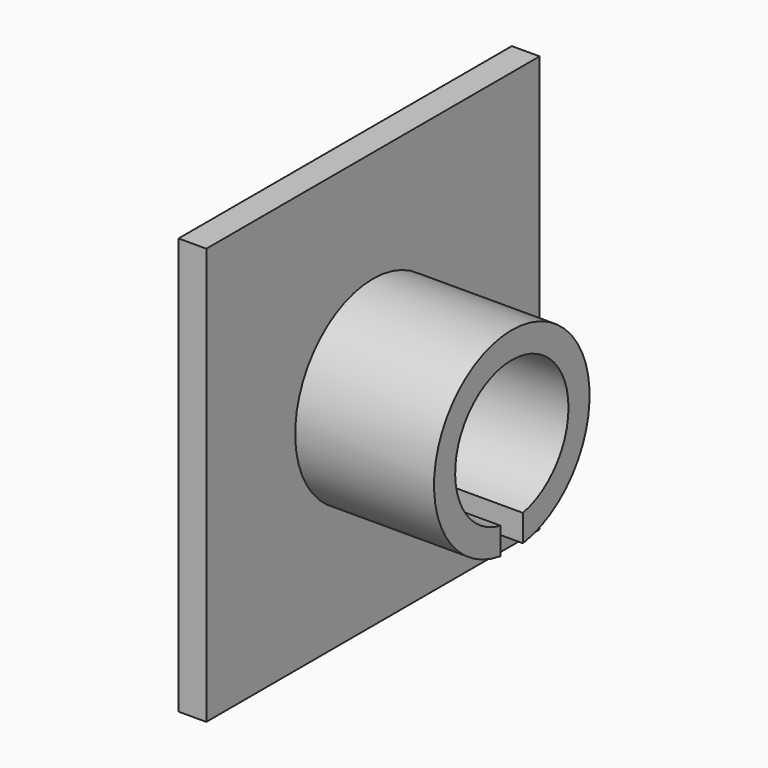
from build123d import *

# Parameters (mm, degrees)
F0_W     = 15
F0_H     = 15
F1_DEPTH = 1
F2_R     = 3.5
F3_DEPTH = 5
F4_R     = 2.55
F5_DEPTH = 25
F6_W     = 5.5
F6_H     = 1
F7_DEPTH = 7


with BuildPart() as f1:
    # F0 (on Right) → F1 (new body)
    with BuildSketch(Plane.YZ):
        Rectangle(F0_W, F0_H)
    extrude(amount=F1_DEPTH)

    # F2 (on face) → F3 (join)
    with BuildSketch(Plane.YZ.offset(1)):
        Circle(F2_R)
    extrude(amount=F3_DEPTH)

    # F4 (on face) → F5 (cut)
    with BuildSketch(Plane.YZ.offset(6)):
        Circle(F4_R)
    extrude(amount=-F5_DEPTH, mode=Mode.SUBTRACT)

    # F6 (on face) → F7 (cut)
    with BuildSketch(Plane(origin=(0, 0, -7.5), x_dir=(1, 0, 0), z_dir=(0, 0, -1))):
        with Locations((3.75, 0)):
            Rectangle(F6_W, F6_H)
    extrude(amount=-F7_DEPTH, mode=Mode.SUBTRACT)


solid = f1.part
